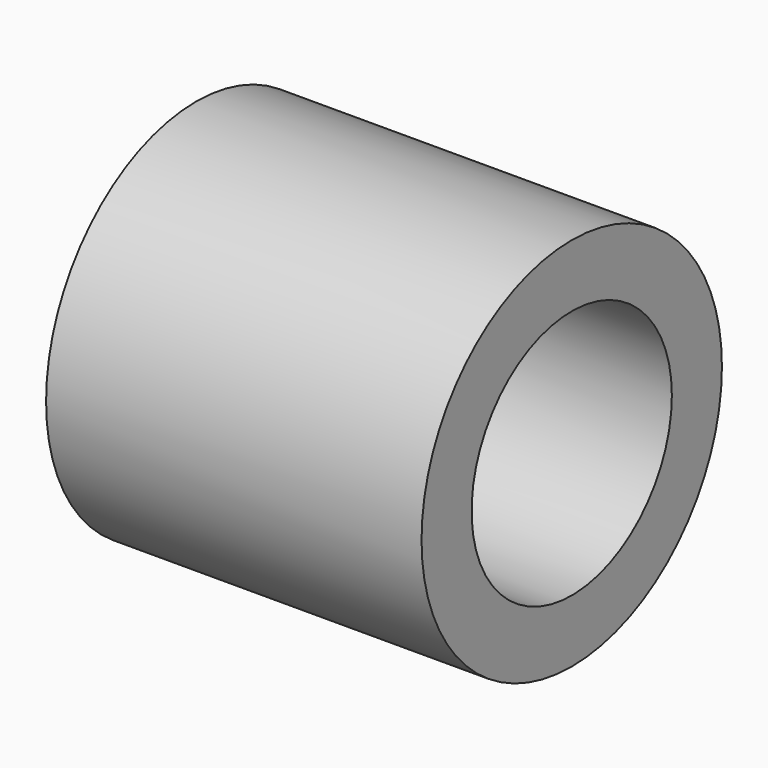
from build123d import *

# Parameters (mm, degrees)
F0_R     = 19.05
F0_R_2   = 12.7
F1_DEPTH = 38.1
F0_R_3   = 4.445
F2_DEPTH = 12.7


with BuildPart() as f1:
    # F0 (on Right) → F1 (new body)
    with BuildSketch(Plane.YZ):
        Circle(F0_R)
        Circle(F0_R_2, mode=Mode.SUBTRACT)
    extrude(amount=F1_DEPTH)

    # F0 (on Right) → F2 (join)
    with BuildSketch(Plane.YZ):
        Circle(F0_R_2)
        Circle(F0_R_3, mode=Mode.SUBTRACT)
    extrude(amount=F2_DEPTH)


solid = f1.part
